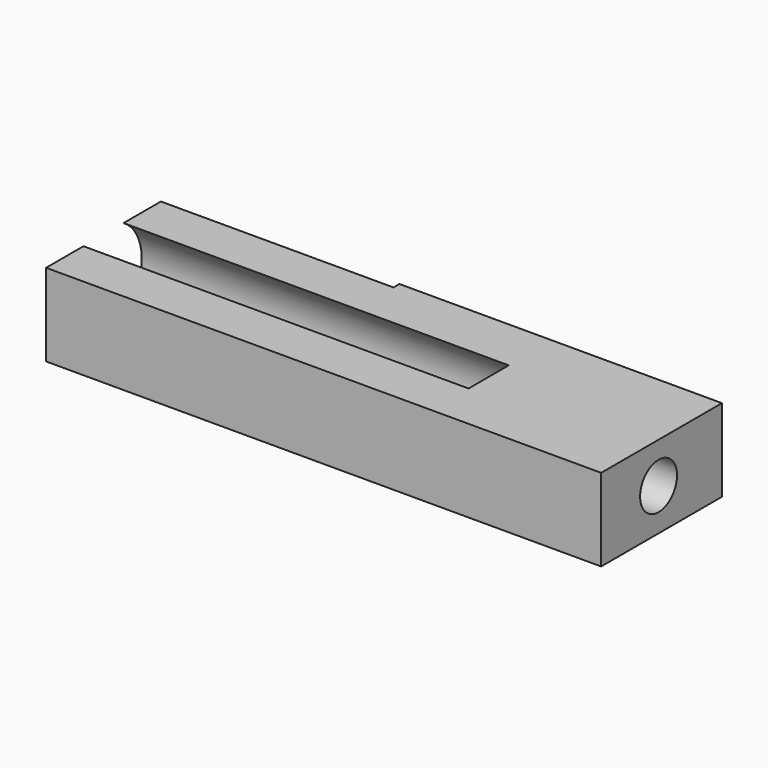
from build123d import *

# Parameters (mm, degrees)
CYLINDER001_R     = 2.8
CYLINDER001_DEPTH = 67.3
CYLINDER_R        = 5.8
CYLINDER_DEPTH    = 46.7
BOX001_W          = 28.2
BOX001_H          = 0.9
BOX001_DEPTH      = 10
BOX_W             = 67.3
BOX_H             = 18.3
BOX_DEPTH         = 10


with BuildPart() as cylinder001:
    # Cylinder001 → Cylinder001 (new body)
    with BuildSketch(Plane(origin=(0, 8.7, 5.06), x_dir=(0, 0, -1), z_dir=(1, 0, 0))):
        Circle(CYLINDER001_R)
    extrude(amount=CYLINDER001_DEPTH)


with BuildPart() as cylinder:
    # Cylinder → Cylinder (new body)
    with BuildSketch(Plane(origin=(0, 8.7, 5.06), x_dir=(0, 0, -1), z_dir=(1, 0, 0))):
        Circle(CYLINDER_R)
    extrude(amount=CYLINDER_DEPTH)


with BuildPart() as cube001:
    # Box001 → Box001 (new body)
    with BuildSketch(Plane(origin=(0, 17.4, 0), x_dir=(1, 0, 0), z_dir=(0, 0, 1))):
        with Locations((14.1, 0.45)):
            Rectangle(BOX001_W, BOX001_H)
    extrude(amount=BOX001_DEPTH)


with BuildPart() as cut002:
    # Box → Box (new body)
    with BuildSketch(Plane.XY):
        with Locations((33.65, 9.15)):
            Rectangle(BOX_W, BOX_H)
    extrude(amount=BOX_DEPTH)

    # Cut: cut Cube001
    add(cube001.part, mode=Mode.SUBTRACT)

    # Cut001: cut Cylinder
    add(cylinder.part, mode=Mode.SUBTRACT)

    # Cut002: cut Cylinder001
    add(cylinder001.part, mode=Mode.SUBTRACT)


solid = cut002.part
